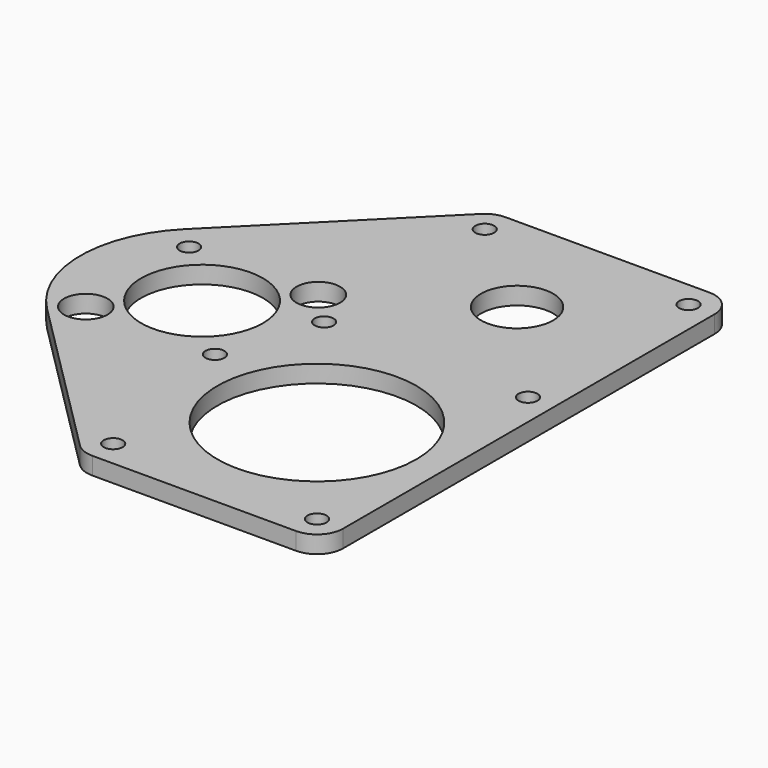
from build123d import *

# Parameters (mm, degrees)
F0_R     = 1.7272
F0_R_2   = 3.96875
F0_R_3   = 18.161
F0_R_4   = 11.1125
F0_R_5   = 6.587503
F1_DEPTH = 3.175
F2_R     = 4.7625


with BuildPart() as f1:
    # F0 (on Top) → F1 (new body)
    with BuildSketch(Plane.XY):
        with BuildLine():
            Line((14.313628, 45.744524), (-15.715448, 15.715448))
            ThreePointArc((-15.715448, 15.715448), (-22.225, 0), (-15.715448, -15.715448))
            Line((-15.715448, -15.715448), (14.313628, -45.744524))
            ThreePointArc((14.313628, -45.744524), (15.858694, -46.776904), (17.681224, -47.139428))
            Line((17.681224, -47.139428), (59.644103, -47.139428))
            Line((59.644103, -47.139428), (59.644103, 47.139428))
            Line((59.644103, 47.139428), (17.681224, 47.139428))
            ThreePointArc((17.681224, 47.139428), (15.858694, 46.776904), (14.313628, 45.744524))
        make_face()
        with Locations((17.681224, -42.376928)):
            Circle(F0_R, mode=Mode.SUBTRACT)
        with Locations((-11.786586, -11.786586)):
            Circle(F0_R_2, mode=Mode.SUBTRACT)
        with Locations((11.786586, -11.786586)):
            Circle(F0_R, mode=Mode.SUBTRACT)
        with Locations((54.881603, -42.376928)):
            Circle(F0_R, mode=Mode.SUBTRACT)
        with Locations((36.281413, -19.148425)):
            Circle(F0_R_3, mode=Mode.SUBTRACT)
        with Locations((-11.786586, 11.786586)):
            Circle(F0_R, mode=Mode.SUBTRACT)
        Circle(F0_R_4, mode=Mode.SUBTRACT)
        with Locations((17.681224, 5.749925)):
            Circle(F0_R, mode=Mode.SUBTRACT)
        with Locations((11.786586, 11.786586)):
            Circle(F0_R_2, mode=Mode.SUBTRACT)
        with Locations((17.681224, 42.376928)):
            Circle(F0_R, mode=Mode.SUBTRACT)
        with Locations((54.881603, 5.749925)):
            Circle(F0_R, mode=Mode.SUBTRACT)
        with Locations((36.281413, 26.514425)):
            Circle(F0_R_5, mode=Mode.SUBTRACT)
        with Locations((54.881603, 42.376928)):
            Circle(F0_R, mode=Mode.SUBTRACT)
    extrude(amount=F1_DEPTH)

    # F2
    f2_edges = [f1.edges().sort_by_distance(p)[0] for p in [
        (59.644103, 47.139428, 1.5875),
        (59.644103, -47.139428, 1.5875),
    ]]
    fillet(f2_edges, radius=F2_R)


solid = f1.part
